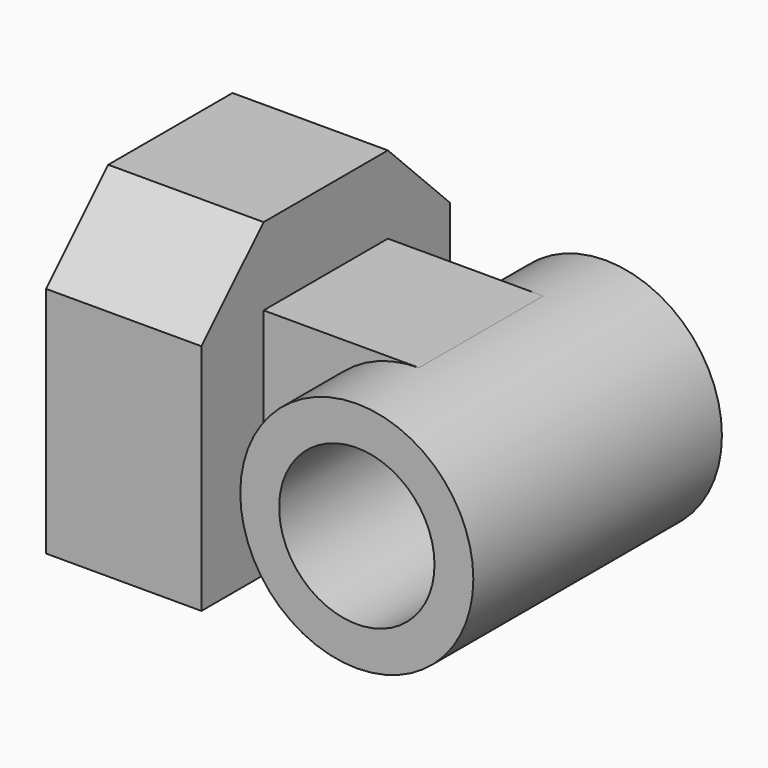
from build123d import *

# Parameters (mm, degrees)
F0_W     = 12.7
F0_H     = 25.4
F1_DEPTH = 12.7
F3_DEPTH = 12.7
F4_W     = 12.7
F4_H     = 12.7
F5_DEPTH = 12.7
F6_R     = 9.525
F7_DEPTH = 12.7
F8_R     = 6.35
F9_DEPTH = 25.4


with BuildPart() as f1:
    # F0 (on Front) → F1 (new body, symmetric)
    with BuildSketch(Plane.XZ):
        with Locations((6.35, 12.7)):
            Rectangle(F0_W, F0_H)
    extrude(amount=F1_DEPTH, both=True)

    # F2 (on face) → F3 (cut)
    with BuildSketch(Plane.YZ.offset(12.7)):
        Polygon((-12.7, 25.4), (-12.7, 19.05), (-6.35, 25.4), align=None)
        Polygon((12.7, 25.4), (6.35, 25.4), (12.7, 19.05), align=None)
    extrude(amount=-F3_DEPTH, mode=Mode.SUBTRACT)

    # F4 (on face) → F5 (join)
    with BuildSketch(Plane.YZ.offset(12.7)):
        with Locations((0, 12.7)):
            Rectangle(F4_W, F4_H)
    extrude(amount=F5_DEPTH)

    # F6 (on Front) → F7 (join, symmetric)
    with BuildSketch(Plane.XZ):
        with Locations((25.4, 9.525)):
            Circle(F6_R)
    extrude(amount=F7_DEPTH, both=True)

    # F8 (on face) → F9 (cut)
    with BuildSketch(Plane.XZ.offset(12.7)):
        with Locations((25.4, 9.525)):
            Circle(F8_R)
    extrude(amount=-F9_DEPTH, mode=Mode.SUBTRACT)


solid = f1.part
